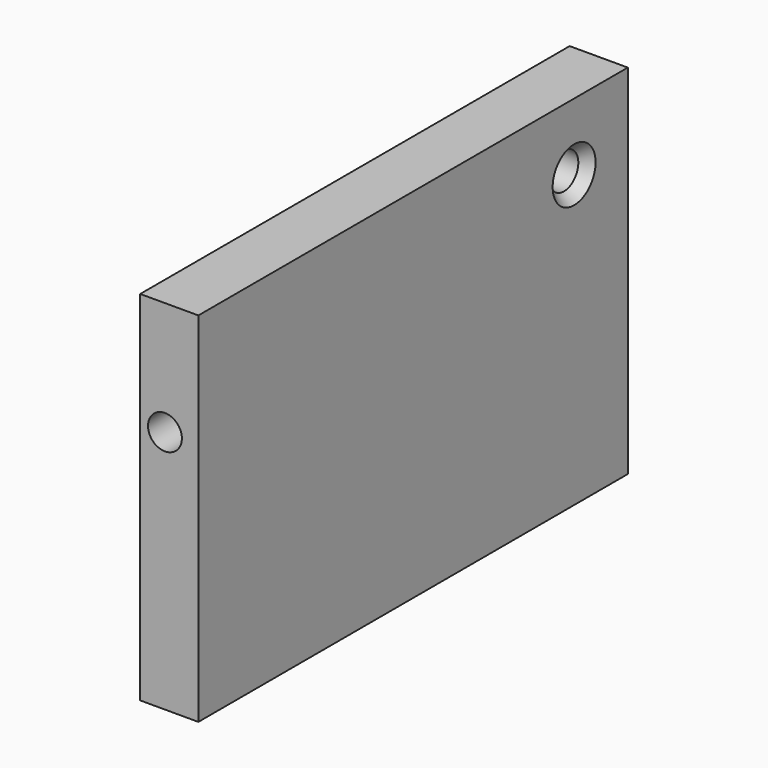
from build123d import *

# Parameters (mm, degrees)
F0_W           = 76.2
F0_H           = 50.8
F1_DEPTH       = 8.255
F2_R           = 2.402553
F3_DEPTH       = 9.525
F5_D           = 5.1054
F5_CSINK_D     = 7.62
F5_CSINK_ANGLE = 82


with BuildPart() as f1:
    # F0 (on Right) → F1 (new body)
    with BuildSketch(Plane.YZ):
        Rectangle(F0_W, F0_H)
    extrude(amount=F1_DEPTH)

    # F2 (on face) → F3 (cut)
    with BuildSketch(Plane.XZ.offset(38.1)):
        with Locations((3.510773, 9.267487)):
            Circle(F2_R)
    extrude(amount=-F3_DEPTH, mode=Mode.SUBTRACT)

    # F5 (through all)
    with Locations(Plane.YZ.offset(8.255)):
        with Locations((28.575, 15.875)):
            CounterSinkHole(F5_D / 2, F5_CSINK_D / 2, counter_sink_angle=F5_CSINK_ANGLE)


solid = f1.part
